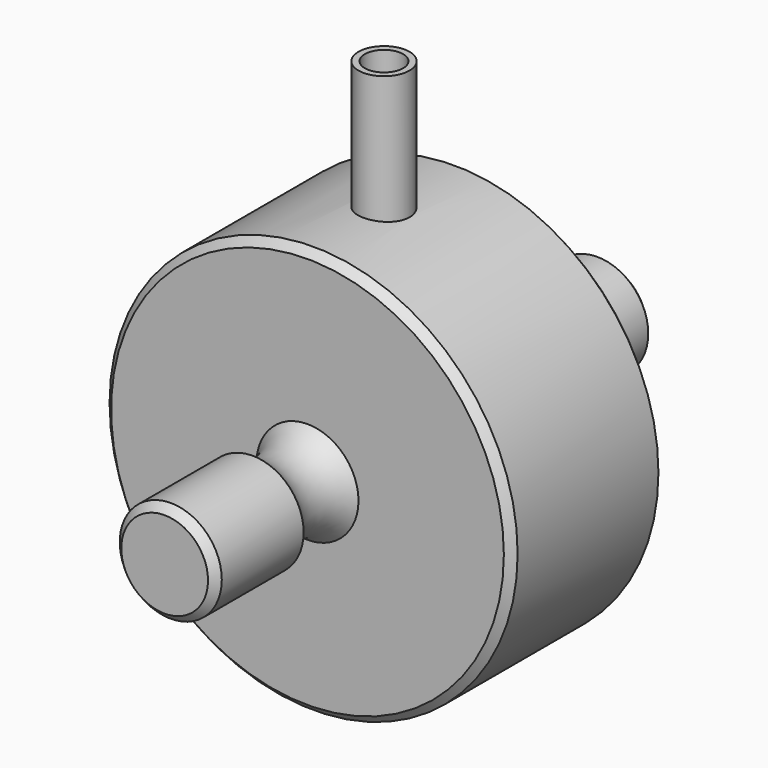
from build123d import *

# Parameters (mm, degrees)
F2_SIZE  = 0.6
F3_R     = 2
F4_DEPTH = 26
F5_R     = 1.5
F6_DEPTH = 10


with BuildPart() as f1:
    # F0 (on Top) → F1 (revolve)
    with BuildSketch(Plane.XY):
        with BuildLine():
            Line((0, 21.5), (0, 0))
            Line((0, 0), (16, 0))
            Line((16, 0), (16, 7.5))
            Line((16, 7.5), (4, 7.5))
            ThreePointArc((4, 7.5), (2.918364, 10.189654), (4, 12.879307))
            Line((4, 12.879307), (4, 21.5))
            Line((4, 21.5), (0, 21.5))
        make_face()
        with BuildLine():
            Line((16, 0), (0, 0))
            Line((0, 0), (0, -21.5))
            Line((0, -21.5), (4, -21.5))
            Line((4, -21.5), (4, -12.879307))
            ThreePointArc((4, -12.879307), (2.918364, -10.189654), (4, -7.5))
            Line((4, -7.5), (16, -7.5))
            Line((16, -7.5), (16, 0))
        make_face()
    revolve(axis=Axis((0, 10.75, 0), (0, -1, 0)))

    # F2
    f2_edges = [f1.edges().sort_by_distance(p)[0] for p in [
        (-4, 21.5, 0),
        (-16, 7.5, 0),
        (-16, -7.5, 0),
        (-4, -21.5, 0),
    ]]
    chamfer(f2_edges, length=F2_SIZE)

    # F3 (on Top) → F4 (join)
    with BuildSketch(Plane.XY):
        Circle(F3_R)
    extrude(amount=F4_DEPTH)

    # F5 (on face) → F6 (cut)
    with BuildSketch(Plane.XY.offset(26)):
        Circle(F5_R)
    extrude(amount=-F6_DEPTH, mode=Mode.SUBTRACT)


solid = f1.part
